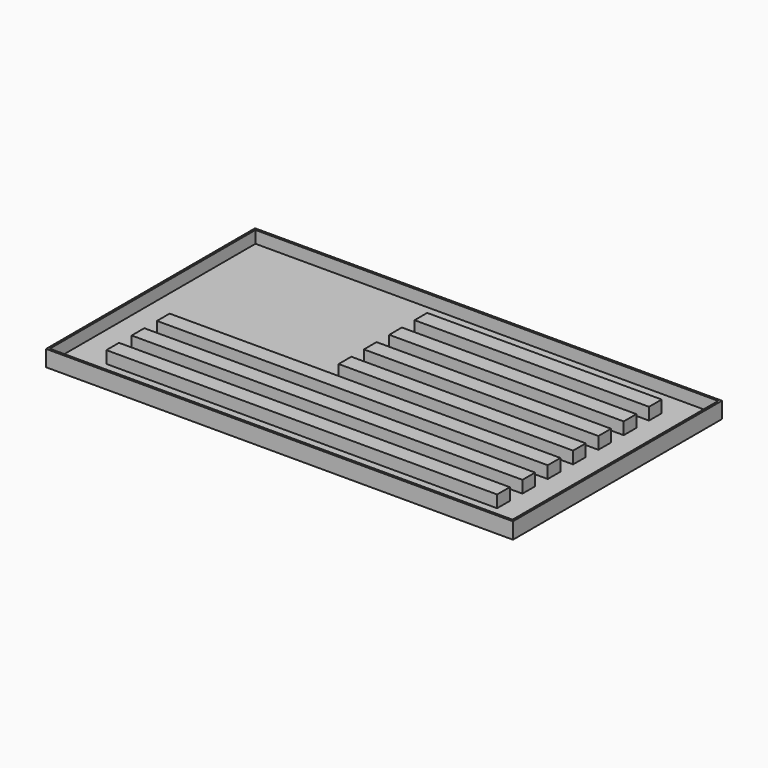
from build123d import *

# Parameters (mm, degrees)
F0_W     = 28.956
F0_H     = 1.95326
F0_W_2   = 48.26
F0_H_2   = 1.9558
F1_DEPTH = 2
F2_W     = 57.658
F2_H     = 32.258
F2_W_2   = 57.15
F2_H_2   = 31.75
F3_DEPTH = 2
F4_W     = 57.15
F4_H     = 31.75
F5_DEPTH = 0.5


with BuildPart() as f1:
    # F0 (on Top) → F1 (new body)
    with BuildSketch(Plane.XY):
        with Locations((9.652, 11.72337)):
            Rectangle(F0_W, F0_H)
        with Locations((9.652, 7.81685)):
            Rectangle(F0_W, F0_H)
        with Locations((9.652, 3.91033)):
            Rectangle(F0_W, F0_H)
        with Locations((9.652, 0.00381)):
            Rectangle(F0_W, F0_H)
        with Locations((0, -3.90779)):
            Rectangle(F0_W_2, F0_H)
        with Locations((0, -7.81431)):
            Rectangle(F0_W_2, F0_H)
        with Locations((0, -11.7221)):
            Rectangle(F0_W_2, F0_H_2)
    extrude(amount=F1_DEPTH)


with BuildPart() as f3:
    # F2 (on Top) → F3 (new body)
    with BuildSketch(Plane.XY):
        Rectangle(F2_W, F2_H)
        Rectangle(F2_W_2, F2_H_2, mode=Mode.SUBTRACT)
    extrude(amount=F3_DEPTH)


with BuildPart() as f5:
    # F4 (on Top) → F5 (new body)
    with BuildSketch(Plane.XY):
        Rectangle(F4_W, F4_H)
    extrude(amount=F5_DEPTH)


solid = Compound([f1.part, f3.part, f5.part])
